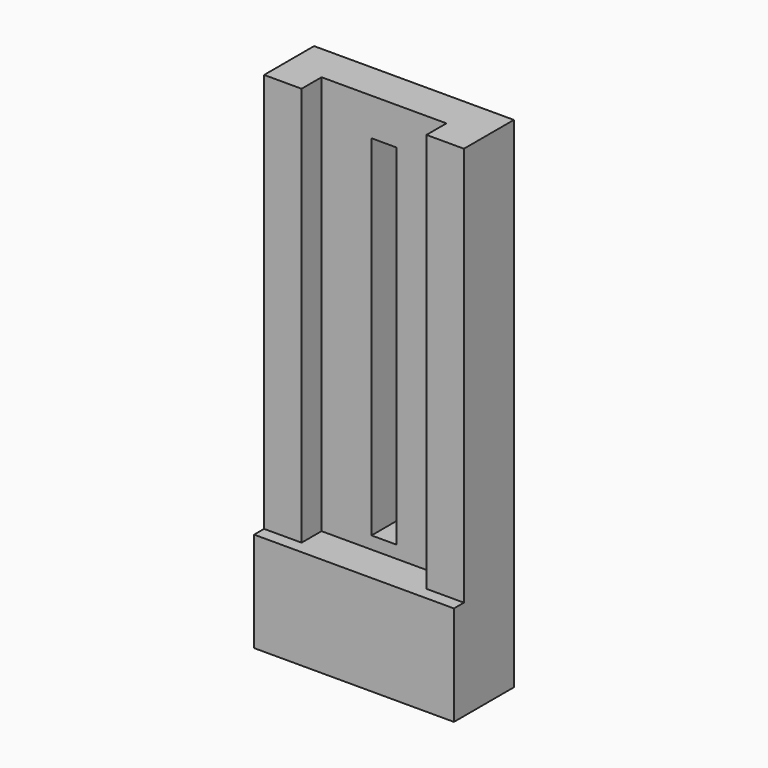
from build123d import *

# Parameters (mm, degrees)
F0_W     = 50
F0_H     = 160
F0_W_2   = 10
F0_H_2   = 140
F1_DEPTH = 15
F2_DEPTH = 30
F3_R     = 3
F4_DEPTH = 25
F0_W_3   = 15
F5_DEPTH = 25


with BuildPart() as f1:
    # F0 (on Front) → F1 (new body)
    with BuildSketch(Plane.XZ):
        with Locations((0, 20)):
            Rectangle(F0_W, F0_H)
        with Locations((0, 15)):
            Rectangle(F0_W_2, F0_H_2, mode=Mode.SUBTRACT)
    extrude(amount=F1_DEPTH)

    # F0 (on Front) → F2 (join)
    with BuildSketch(Plane.XZ):
        Polygon((-40, -100), (40, -100), (40, -60), (25, -60), (-25, -60), (-40, -60), align=None)
    extrude(amount=F2_DEPTH)

    # F3 (on face) → F4 (cut)
    with BuildSketch(Plane(origin=(0, 0, -100), x_dir=(1, 0, 0), z_dir=(0, 0, -1))):
        with Locations((-10, 15)):
            Circle(F3_R)
        with Locations((10, 15)):
            Circle(F3_R)
    extrude(amount=-F4_DEPTH, mode=Mode.SUBTRACT)

    # F0 (on Front) → F5 (join)
    with BuildSketch(Plane.XZ):
        with Locations((-32.5, 20)):
            Rectangle(F0_W_3, F0_H)
        with Locations((32.5, 20)):
            Rectangle(F0_W_3, F0_H)
    extrude(amount=F5_DEPTH)


solid = f1.part
